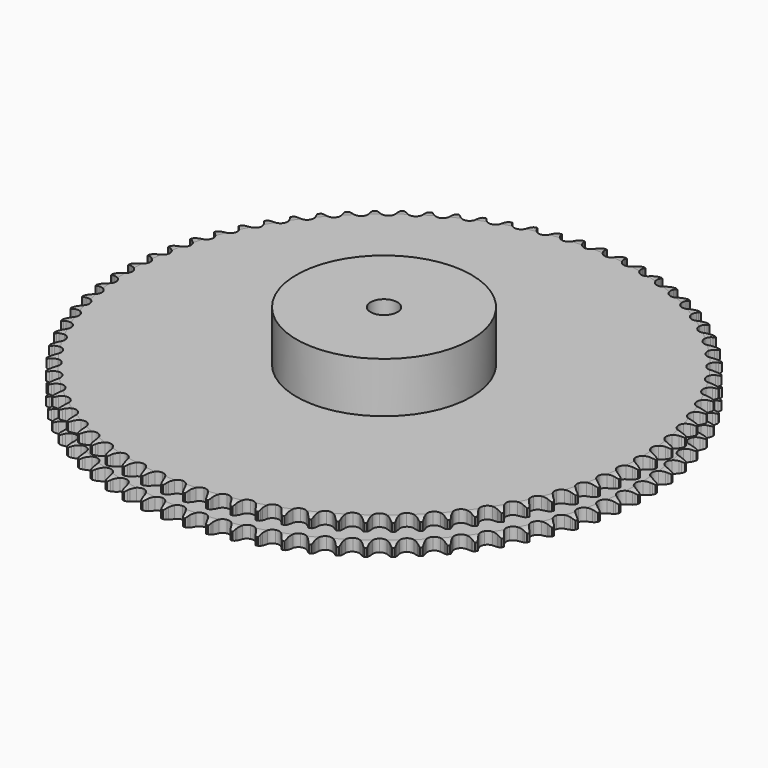
from build123d import *

# Parameters (mm, degrees)
PAD_DEPTH         = 25.5
SKETCH001_R       = 65
PAD001_DEPTH      = 63
SKETCH002_R       = 10
POCKET_DEPTH      = 0.001
POCKET_DEPTH_BACK = 63.001


with BuildPart() as part:
    # Sprocket → Pad (new body)
    with BuildSketch(Plane.XY):
        with BuildLine():
            ThreePointArc((-8.145223, 196.933331), (-7.167321, 195.590684), (-6.48185, 194.077698))
            Line((-6.48185, 194.077698), (-5.990542, 192.611571))
            ThreePointArc((-5.990542, 192.611571), (-5.215144, 190.77076), (-4.172259, 189.067171))
            ThreePointArc((-4.172259, 189.067171), (-2.343516, 187.496541), (0, 186.931635))
            ThreePointArc((0, 186.931635), (2.343516, 187.496541), (4.172259, 189.067171))
            ThreePointArc((4.172259, 189.067171), (5.215144, 190.77076), (5.990542, 192.611571))
            Line((5.990542, 192.611571), (6.48185, 194.077698))
            ThreePointArc((6.48185, 194.077698), (7.167321, 195.590684), (8.145223, 196.933331))
            ThreePointArc((8.145223, 196.933331), (9.00891, 195.514515), (9.567098, 193.950092))
            Line((9.567098, 193.950092), (9.935656, 192.4484))
            ThreePointArc((9.935656, 192.4484), (10.556393, 190.549845), (11.455034, 188.765954))
            ThreePointArc((11.455034, 188.765954), (13.14783, 187.049671), (15.436692, 186.293169))
            ThreePointArc((15.436692, 186.293169), (17.818853, 186.662619), (19.771052, 188.076869))
            Line((19.771052, 188.076869), (21.875819, 191.45901))
            ThreePointArc((21.875819, 191.45901), (22.160464, 192.178185), (22.486521, 192.879558))
            ThreePointArc((22.486521, 192.879558), (23.294592, 194.33077), (24.380028, 195.588077))
            ThreePointArc((24.380028, 195.588077), (25.1236, 194.102784), (25.550693, 192.497609))
            Line((25.550693, 192.497609), (25.793984, 190.970611))
            ThreePointArc((25.793984, 190.970611), (26.255819, 189.02728), (27.004078, 187.175273))
            ThreePointArc((27.004078, 187.175273), (28.549363, 185.325062), (30.767936, 184.382131))
            ThreePointArc((30.767936, 184.382131), (33.17247, 184.553602), (35.234789, 185.80181))
            Line((35.234789, 185.80181), (37.611661, 188.998589))
            ThreePointArc((37.611661, 188.998589), (37.954723, 189.691803), (38.337585, 190.363854))
            ThreePointArc((38.337585, 190.363854), (39.262736, 191.743379), (40.448294, 192.906758))
            ThreePointArc((40.448294, 192.906758), (41.066671, 191.365134), (41.359751, 189.730173))
            Line((41.359751, 189.730173), (41.476112, 188.188299))
            ThreePointArc((41.476112, 188.188299), (41.775891, 186.213468), (42.368657, 184.305995))
            ThreePointArc((42.368657, 184.305995), (43.755875, 182.334495), (45.889003, 181.211577))
            ThreePointArc((45.889003, 181.211577), (48.299484, 181.183897), (50.457836, 182.257537))
            Line((50.457836, 182.257537), (53.090578, 185.247117))
            ThreePointArc((53.090578, 185.247117), (53.489713, 185.909633), (53.926766, 186.547772))
            ThreePointArc((53.926766, 186.547772), (54.962677, 187.846187), (56.240256, 188.90769))
            ThreePointArc((56.240256, 188.90769), (56.729215, 187.320266), (56.88628, 185.666687))
            Line((56.88628, 185.666687), (56.874917, 184.12047))
            ThreePointArc((56.874917, 184.12047), (57.010591, 182.127629), (57.443815, 180.177721))
            ThreePointArc((57.443815, 180.177721), (58.66349, 178.098399), (60.696603, 176.803163))
            ThreePointArc((60.696603, 176.803163), (63.096565, 176.576522), (65.336205, 177.46826))
            Line((65.336205, 177.46826), (68.206832, 180.230219))
            ThreePointArc((68.206832, 180.230219), (68.659315, 180.857512), (69.147571, 181.45738))
            ThreePointArc((69.147571, 181.45738), (70.287167, 182.665816), (71.64804, 183.618191))
            ThreePointArc((71.64804, 183.618191), (72.004241, 181.995811), (72.024218, 180.334909))
            Line((72.024218, 180.334909), (71.885208, 178.794912))
            ThreePointArc((71.885208, 178.794912), (71.855852, 176.797673), (72.126574, 174.81865))
            ThreePointArc((72.126574, 174.81865), (73.170373, 172.64571), (75.089582, 171.187005))
            ThreePointArc((75.089582, 171.187005), (77.462632, 170.762951), (79.768262, 171.466695))
            Line((79.768262, 171.466695), (82.857165, 173.982166))
            ThreePointArc((82.857165, 173.982166), (83.359903, 174.56995), (83.896029, 175.12745))
            ThreePointArc((83.896029, 175.12745), (85.131524, 176.237651), (86.566396, 177.074393))
            ThreePointArc((86.566396, 177.074393), (86.787405, 175.42814), (86.670158, 173.771261))
            Line((86.670158, 173.771261), (86.404451, 172.248003))
            ThreePointArc((86.404451, 172.248003), (86.210264, 170.260011), (86.316635, 168.265391))
            ThreePointArc((86.316635, 168.265391), (87.177429, 166.013676), (88.969624, 164.401466))
            ThreePointArc((88.969624, 164.401466), (91.29955, 163.782896), (93.65542, 164.293839))
            Line((93.65542, 164.293839), (96.941499, 166.545638))
            ThreePointArc((96.941499, 166.545638), (97.491059, 167.089899), (98.071392, 167.601222))
            ThreePointArc((98.071392, 167.601222), (99.394347, 168.605604), (100.893415, 169.320998))
            ThreePointArc((100.893415, 169.320998), (100.977723, 167.662117), (100.724052, 166.020579))
            Line((100.724052, 166.020579), (100.333463, 164.524466))
            ThreePointArc((100.333463, 164.524466), (99.975772, 162.559299), (99.917065, 160.562708))
            ThreePointArc((99.917065, 160.562708), (100.588975, 158.2476), (102.241913, 156.492898))
            ThreePointArc((102.241913, 156.492898), (104.5128, 155.684037), (106.902817, 155.998688))
            Line((106.902817, 155.998688), (110.363625, 157.971435))
            ThreePointArc((110.363625, 157.971435), (110.956252, 158.468455), (111.576827, 158.930107))
            ThreePointArc((111.576827, 158.930107), (112.978205, 159.821811), (114.53123, 160.410969))
            ThreePointArc((114.53123, 160.410969), (114.478261, 158.750791), (114.089899, 157.135809))
            Line((114.089899, 157.135809), (113.577096, 155.67706))
            ThreePointArc((113.577096, 155.67706), (113.058345, 153.748143), (112.834961, 151.763219))
            ThreePointArc((112.834961, 151.763219), (113.313395, 149.400533), (114.815787, 147.515326))
            ThreePointArc((114.815787, 147.515326), (117.012122, 146.521698), (119.419959, 146.637909))
            Line((119.419959, 146.637909), (123.031855, 148.318126))
            ThreePointArc((123.031855, 148.318126), (123.663502, 148.76451), (124.32008, 149.173339))
            ThreePointArc((124.32008, 149.173339), (125.790308, 149.946272), (127.386681, 150.40517))
            ThreePointArc((127.386681, 150.40517), (127.196796, 148.755037), (126.676396, 147.177641))
            Line((126.676396, 147.177641), (126.044882, 145.766222))
            ThreePointArc((126.044882, 145.766222), (125.368614, 143.886731), (124.98208, 141.927033))
            ThreePointArc((124.98208, 141.927033), (125.263771, 139.532908), (126.605351, 137.530073))
            ThreePointArc((126.605351, 137.530073), (128.712132, 136.358468), (131.121342, 136.275444))
            Line((131.121342, 136.275444), (134.859652, 137.651654))
            ThreePointArc((134.859652, 137.651654), (135.526004, 138.044353), (136.214101, 138.397566))
            ThreePointArc((136.214101, 138.397566), (137.743135, 139.046448), (139.371951, 139.371951))
            ThreePointArc((139.371951, 139.371951), (139.046448, 137.743135), (138.397566, 136.214101))
            Line((138.397566, 136.214101), (137.651654, 134.859652))
            ThreePointArc((137.651654, 134.859652), (136.822489, 133.042427), (136.275444, 131.121342))
            ThreePointArc((136.275444, 131.121342), (136.358468, 128.712132), (137.530073, 126.605351))
            ThreePointArc((137.530073, 126.605351), (139.532908, 125.263771), (141.927033, 124.98208))
            Line((141.927033, 124.98208), (145.766222, 126.044882))
            ThreePointArc((145.766222, 126.044882), (146.462726, 126.381212), (147.177641, 126.676396))
            ThreePointArc((147.177641, 126.676396), (148.755037, 127.196796), (150.40517, 127.386681))
            ThreePointArc((150.40517, 127.386681), (149.946272, 125.790308), (149.173339, 124.32008))
            Line((149.173339, 124.32008), (148.318126, 123.031855))
            ThreePointArc((148.318126, 123.031855), (147.341727, 121.289308), (146.637909, 119.419959))
            ThreePointArc((146.637909, 119.419959), (146.521698, 117.012122), (147.515326, 114.815787))
            ThreePointArc((147.515326, 114.815787), (149.400533, 113.313395), (151.763219, 112.834961))
            Line((151.763219, 112.834961), (155.67706, 113.577096))
            ThreePointArc((155.67706, 113.577096), (156.39896, 113.85476), (157.135809, 114.089899))
            ThreePointArc((157.135809, 114.089899), (158.750791, 114.478261), (160.410969, 114.53123))
            ThreePointArc((160.410969, 114.53123), (159.821811, 112.978205), (158.930107, 111.576827))
            Line((158.930107, 111.576827), (157.971435, 110.363625))
            ThreePointArc((157.971435, 110.363625), (156.854472, 108.70766), (155.998688, 106.902817))
            ThreePointArc((155.998688, 106.902817), (155.684037, 104.5128), (156.492898, 102.241913))
            ThreePointArc((156.492898, 102.241913), (158.2476, 100.588975), (160.562708, 99.917065))
            Line((160.562708, 99.917065), (164.524466, 100.333463))
            ThreePointArc((164.524466, 100.333463), (165.266829, 100.550565), (166.020579, 100.724052))
            ThreePointArc((166.020579, 100.724052), (167.662117, 100.977723), (169.320998, 100.893415))
            ThreePointArc((169.320998, 100.893415), (168.605604, 99.394347), (167.601222, 98.071392))
            Line((167.601222, 98.071392), (166.545638, 96.941499))
            ThreePointArc((166.545638, 96.941499), (165.295742, 95.383428), (164.293839, 93.65542))
            ThreePointArc((164.293839, 93.65542), (163.782896, 91.29955), (164.401466, 88.969624))
            ThreePointArc((164.401466, 88.969624), (166.013676, 87.177429), (168.265391, 86.316635))
            Line((168.265391, 86.316635), (172.248003, 86.404451))
            ThreePointArc((172.248003, 86.404451), (173.005759, 86.559507), (173.771261, 86.670158))
            ThreePointArc((173.771261, 86.670158), (175.42814, 86.787405), (177.074393, 86.566396))
            ThreePointArc((177.074393, 86.566396), (176.237651, 85.131524), (175.12745, 83.896029))
            Line((175.12745, 83.896029), (173.982166, 82.857165))
            ThreePointArc((173.982166, 82.857165), (172.607874, 81.407632), (171.466695, 79.768262))
            ThreePointArc((171.466695, 79.768262), (170.762951, 77.462632), (171.187005, 75.089582))
            ThreePointArc((171.187005, 75.089582), (172.64571, 73.170373), (174.81865, 72.126574))
            Line((174.81865, 72.126574), (178.794912, 71.885208))
            ThreePointArc((178.794912, 71.885208), (179.562884, 71.97716), (180.334909, 72.024218))
            ThreePointArc((180.334909, 72.024218), (181.995811, 72.004241), (183.618191, 71.64804))
            ThreePointArc((183.618191, 71.64804), (182.665816, 70.287167), (181.45738, 69.147571))
            Line((181.45738, 69.147571), (180.230219, 68.206832))
            ThreePointArc((180.230219, 68.206832), (178.74092, 66.875738), (177.46826, 65.336205))
            ThreePointArc((177.46826, 65.336205), (176.576522, 63.096565), (176.803163, 60.696603))
            ThreePointArc((176.803163, 60.696603), (178.098399, 58.66349), (180.177721, 57.443815))
            Line((180.177721, 57.443815), (184.12047, 56.874917))
            ThreePointArc((184.12047, 56.874917), (184.893413, 56.903136), (185.666687, 56.88628))
            ThreePointArc((185.666687, 56.88628), (187.320266, 56.729215), (188.90769, 56.240256))
            ThreePointArc((188.90769, 56.240256), (187.846187, 54.962677), (186.547772, 53.926766))
            Line((186.547772, 53.926766), (185.247117, 53.090578))
            ThreePointArc((185.247117, 53.090578), (183.652984, 51.887015), (182.257537, 50.457836))
            ThreePointArc((182.257537, 50.457836), (181.183897, 48.299484), (181.211577, 45.889003))
            ThreePointArc((181.211577, 45.889003), (182.334495, 43.755875), (184.305995, 42.368657))
            Line((184.305995, 42.368657), (188.188299, 41.476112))
            ThreePointArc((188.188299, 41.476112), (188.960932, 41.440406), (189.730173, 41.359751))
            ThreePointArc((189.730173, 41.359751), (191.365134, 41.066671), (192.906758, 40.448294))
            ThreePointArc((192.906758, 40.448294), (191.743379, 39.262736), (190.363854, 38.337585))
            Line((190.363854, 38.337585), (188.998589, 37.611661))
            ThreePointArc((188.998589, 37.611661), (187.310511, 36.543852), (185.80181, 35.234789))
            ThreePointArc((185.80181, 35.234789), (184.553602, 33.17247), (184.382131, 30.767936))
            ThreePointArc((184.382131, 30.767936), (185.325062, 28.549363), (187.175273, 27.004078))
            Line((187.175273, 27.004078), (190.970611, 25.793984))
            ThreePointArc((190.970611, 25.793984), (191.737656, 25.694596), (192.497609, 25.550693))
            ThreePointArc((192.497609, 25.550693), (194.102784, 25.1236), (195.588077, 24.380028))
            ThreePointArc((195.588077, 24.380028), (194.33077, 23.294592), (192.879558, 22.486521))
            Line((192.879558, 22.486521), (191.45901, 21.875819))
            ThreePointArc((191.45901, 21.875819), (189.688518, 20.951056), (188.076869, 19.771052))
            ThreePointArc((188.076869, 19.771052), (186.662619, 17.818853), (186.293169, 15.436692))
            ThreePointArc((186.293169, 15.436692), (187.049671, 13.14783), (188.765954, 11.455034))
            Line((188.765954, 11.455034), (192.4484, 9.935656))
            ThreePointArc((192.4484, 9.935656), (193.204618, 9.773266), (193.950092, 9.567098))
            ThreePointArc((193.950092, 9.567098), (195.514515, 9.00891), (196.933331, 8.145223))
            ThreePointArc((196.933331, 8.145223), (195.590684, 7.167321), (194.077698, 6.48185))
            Line((194.077698, 6.48185), (192.611571, 5.990542))
            ThreePointArc((192.611571, 5.990542), (190.77076, 5.215144), (189.067171, 4.172259))
            ThreePointArc((189.067171, 4.172259), (187.496541, 2.343516), (186.931635, 0))
            ThreePointArc((186.931635, 0), (187.496541, -2.343516), (189.067171, -4.172259))
            Line((189.067171, -4.172259), (192.611571, -5.990542))
            ThreePointArc((192.611571, -5.990542), (193.351796, -6.214826), (194.077698, -6.48185))
            ThreePointArc((194.077698, -6.48185), (195.590684, -7.167321), (196.933331, -8.145223))
            ThreePointArc((196.933331, -8.145223), (195.514515, -9.00891), (193.950092, -9.567098))
            Line((193.950092, -9.567098), (192.4484, -9.935656))
            ThreePointArc((192.4484, -9.935656), (190.549845, -10.556393), (188.765954, -11.455034))
            ThreePointArc((188.765954, -11.455034), (187.049671, -13.14783), (186.293169, -15.436692))
            ThreePointArc((186.293169, -15.436692), (186.662619, -17.818853), (188.076869, -19.771052))
            Line((188.076869, -19.771052), (191.45901, -21.875819))
            ThreePointArc((191.45901, -21.875819), (192.178185, -22.160464), (192.879558, -22.486521))
            ThreePointArc((192.879558, -22.486521), (194.33077, -23.294592), (195.588077, -24.380028))
            ThreePointArc((195.588077, -24.380028), (194.102784, -25.1236), (192.497609, -25.550693))
            Line((192.497609, -25.550693), (190.970611, -25.793984))
            ThreePointArc((190.970611, -25.793984), (189.02728, -26.255819), (187.175273, -27.004078))
            ThreePointArc((187.175273, -27.004078), (185.325062, -28.549363), (184.382131, -30.767936))
            ThreePointArc((184.382131, -30.767936), (184.553602, -33.17247), (185.80181, -35.234789))
            Line((185.80181, -35.234789), (188.998589, -37.611661))
            ThreePointArc((188.998589, -37.611661), (189.691803, -37.954723), (190.363854, -38.337585))
            ThreePointArc((190.363854, -38.337585), (191.743379, -39.262736), (192.906758, -40.448294))
            ThreePointArc((192.906758, -40.448294), (191.365134, -41.066671), (189.730173, -41.359751))
            Line((189.730173, -41.359751), (188.188299, -41.476112))
            ThreePointArc((188.188299, -41.476112), (186.213468, -41.775891), (184.305995, -42.368657))
            ThreePointArc((184.305995, -42.368657), (182.334495, -43.755875), (181.211577, -45.889003))
            ThreePointArc((181.211577, -45.889003), (181.183897, -48.299484), (182.257537, -50.457836))
            Line((182.257537, -50.457836), (185.247117, -53.090578))
            ThreePointArc((185.247117, -53.090578), (185.909633, -53.489713), (186.547772, -53.926766))
            ThreePointArc((186.547772, -53.926766), (187.846187, -54.962677), (188.90769, -56.240256))
            ThreePointArc((188.90769, -56.240256), (187.320266, -56.729215), (185.666687, -56.88628))
            Line((185.666687, -56.88628), (184.12047, -56.874917))
            ThreePointArc((184.12047, -56.874917), (182.127629, -57.010591), (180.177721, -57.443815))
            ThreePointArc((180.177721, -57.443815), (178.098399, -58.66349), (176.803163, -60.696603))
            ThreePointArc((176.803163, -60.696603), (176.576522, -63.096565), (177.46826, -65.336205))
            Line((177.46826, -65.336205), (180.230219, -68.206832))
            ThreePointArc((180.230219, -68.206832), (180.857512, -68.659315), (181.45738, -69.147571))
            ThreePointArc((181.45738, -69.147571), (182.665816, -70.287167), (183.618191, -71.64804))
            ThreePointArc((183.618191, -71.64804), (181.995811, -72.004241), (180.334909, -72.024218))
            Line((180.334909, -72.024218), (178.794912, -71.885208))
            ThreePointArc((178.794912, -71.885208), (176.797673, -71.855852), (174.81865, -72.126574))
            ThreePointArc((174.81865, -72.126574), (172.64571, -73.170373), (171.187005, -75.089582))
            ThreePointArc((171.187005, -75.089582), (170.762951, -77.462632), (171.466695, -79.768262))
            Line((171.466695, -79.768262), (173.982166, -82.857165))
            ThreePointArc((173.982166, -82.857165), (174.56995, -83.359903), (175.12745, -83.896029))
            ThreePointArc((175.12745, -83.896029), (176.237651, -85.131524), (177.074393, -86.566396))
            ThreePointArc((177.074393, -86.566396), (175.42814, -86.787405), (173.771261, -86.670158))
            Line((173.771261, -86.670158), (172.248003, -86.404451))
            ThreePointArc((172.248003, -86.404451), (170.260011, -86.210264), (168.265391, -86.316635))
            ThreePointArc((168.265391, -86.316635), (166.013676, -87.177429), (164.401466, -88.969624))
            ThreePointArc((164.401466, -88.969624), (163.782896, -91.29955), (164.293839, -93.65542))
            Line((164.293839, -93.65542), (166.545638, -96.941499))
            ThreePointArc((166.545638, -96.941499), (167.089899, -97.491059), (167.601222, -98.071392))
            ThreePointArc((167.601222, -98.071392), (168.605604, -99.394347), (169.320998, -100.893415))
            ThreePointArc((169.320998, -100.893415), (167.662117, -100.977723), (166.020579, -100.724052))
            Line((166.020579, -100.724052), (164.524466, -100.333463))
            ThreePointArc((164.524466, -100.333463), (162.559299, -99.975772), (160.562708, -99.917065))
            ThreePointArc((160.562708, -99.917065), (158.2476, -100.588975), (156.492898, -102.241913))
            ThreePointArc((156.492898, -102.241913), (155.684037, -104.5128), (155.998688, -106.902817))
            Line((155.998688, -106.902817), (157.971435, -110.363625))
            ThreePointArc((157.971435, -110.363625), (158.468455, -110.956252), (158.930107, -111.576827))
            ThreePointArc((158.930107, -111.576827), (159.821811, -112.978205), (160.410969, -114.53123))
            ThreePointArc((160.410969, -114.53123), (158.750791, -114.478261), (157.135809, -114.089899))
            Line((157.135809, -114.089899), (155.67706, -113.577096))
            ThreePointArc((155.67706, -113.577096), (153.748143, -113.058345), (151.763219, -112.834961))
            ThreePointArc((151.763219, -112.834961), (149.400533, -113.313395), (147.515326, -114.815787))
            ThreePointArc((147.515326, -114.815787), (146.521698, -117.012122), (146.637909, -119.419959))
            Line((146.637909, -119.419959), (148.318126, -123.031855))
            ThreePointArc((148.318126, -123.031855), (148.76451, -123.663502), (149.173339, -124.32008))
            ThreePointArc((149.173339, -124.32008), (149.946272, -125.790308), (150.40517, -127.386681))
            ThreePointArc((150.40517, -127.386681), (148.755037, -127.196796), (147.177641, -126.676396))
            Line((147.177641, -126.676396), (145.766222, -126.044882))
            ThreePointArc((145.766222, -126.044882), (143.886731, -125.368614), (141.927033, -124.98208))
            ThreePointArc((141.927033, -124.98208), (139.532908, -125.263771), (137.530073, -126.605351))
            ThreePointArc((137.530073, -126.605351), (136.358468, -128.712132), (136.275444, -131.121342))
            Line((136.275444, -131.121342), (137.651654, -134.859652))
            ThreePointArc((137.651654, -134.859652), (138.044353, -135.526004), (138.397566, -136.214101))
            ThreePointArc((138.397566, -136.214101), (139.046448, -137.743135), (139.371951, -139.371951))
            ThreePointArc((139.371951, -139.371951), (137.743135, -139.046448), (136.214101, -138.397566))
            Line((136.214101, -138.397566), (134.859652, -137.651654))
            ThreePointArc((134.859652, -137.651654), (133.042427, -136.822489), (131.121342, -136.275444))
            ThreePointArc((131.121342, -136.275444), (128.712132, -136.358468), (126.605351, -137.530073))
            ThreePointArc((126.605351, -137.530073), (125.263771, -139.532908), (124.98208, -141.927033))
            Line((124.98208, -141.927033), (126.044882, -145.766222))
            ThreePointArc((126.044882, -145.766222), (126.381212, -146.462726), (126.676396, -147.177641))
            ThreePointArc((126.676396, -147.177641), (127.196796, -148.755037), (127.386681, -150.40517))
            ThreePointArc((127.386681, -150.40517), (125.790308, -149.946272), (124.32008, -149.173339))
            Line((124.32008, -149.173339), (123.031855, -148.318126))
            ThreePointArc((123.031855, -148.318126), (121.289308, -147.341727), (119.419959, -146.637909))
            ThreePointArc((119.419959, -146.637909), (117.012122, -146.521698), (114.815787, -147.515326))
            ThreePointArc((114.815787, -147.515326), (113.313395, -149.400533), (112.834961, -151.763219))
            Line((112.834961, -151.763219), (113.577096, -155.67706))
            ThreePointArc((113.577096, -155.67706), (113.85476, -156.39896), (114.089899, -157.135809))
            ThreePointArc((114.089899, -157.135809), (114.478261, -158.750791), (114.53123, -160.410969))
            ThreePointArc((114.53123, -160.410969), (112.978205, -159.821811), (111.576827, -158.930107))
            Line((111.576827, -158.930107), (110.363625, -157.971435))
            ThreePointArc((110.363625, -157.971435), (108.70766, -156.854472), (106.902817, -155.998688))
            ThreePointArc((106.902817, -155.998688), (104.5128, -155.684037), (102.241913, -156.492898))
            ThreePointArc((102.241913, -156.492898), (100.588975, -158.2476), (99.917065, -160.562708))
            Line((99.917065, -160.562708), (100.333463, -164.524466))
            ThreePointArc((100.333463, -164.524466), (100.550565, -165.266829), (100.724052, -166.020579))
            ThreePointArc((100.724052, -166.020579), (100.977723, -167.662117), (100.893415, -169.320998))
            ThreePointArc((100.893415, -169.320998), (99.394347, -168.605604), (98.071392, -167.601222))
            Line((98.071392, -167.601222), (96.941499, -166.545638))
            ThreePointArc((96.941499, -166.545638), (95.383428, -165.295742), (93.65542, -164.293839))
            ThreePointArc((93.65542, -164.293839), (91.29955, -163.782896), (88.969624, -164.401466))
            ThreePointArc((88.969624, -164.401466), (87.177429, -166.013676), (86.316635, -168.265391))
            Line((86.316635, -168.265391), (86.404451, -172.248003))
            ThreePointArc((86.404451, -172.248003), (86.559507, -173.005759), (86.670158, -173.771261))
            ThreePointArc((86.670158, -173.771261), (86.787405, -175.42814), (86.566396, -177.074393))
            ThreePointArc((86.566396, -177.074393), (85.131524, -176.237651), (83.896029, -175.12745))
            Line((83.896029, -175.12745), (82.857165, -173.982166))
            ThreePointArc((82.857165, -173.982166), (81.407632, -172.607874), (79.768262, -171.466695))
            ThreePointArc((79.768262, -171.466695), (77.462632, -170.762951), (75.089582, -171.187005))
            ThreePointArc((75.089582, -171.187005), (73.170373, -172.64571), (72.126574, -174.81865))
            Line((72.126574, -174.81865), (71.885208, -178.794912))
            ThreePointArc((71.885208, -178.794912), (71.97716, -179.562884), (72.024218, -180.334909))
            ThreePointArc((72.024218, -180.334909), (72.004241, -181.995811), (71.64804, -183.618191))
            ThreePointArc((71.64804, -183.618191), (70.287167, -182.665816), (69.147571, -181.45738))
            Line((69.147571, -181.45738), (68.206832, -180.230219))
            ThreePointArc((68.206832, -180.230219), (66.875738, -178.74092), (65.336205, -177.46826))
            ThreePointArc((65.336205, -177.46826), (63.096565, -176.576522), (60.696603, -176.803163))
            ThreePointArc((60.696603, -176.803163), (58.66349, -178.098399), (57.443815, -180.177721))
            Line((57.443815, -180.177721), (56.874917, -184.12047))
            ThreePointArc((56.874917, -184.12047), (56.903136, -184.893413), (56.88628, -185.666687))
            ThreePointArc((56.88628, -185.666687), (56.729215, -187.320266), (56.240256, -188.90769))
            ThreePointArc((56.240256, -188.90769), (54.962677, -187.846187), (53.926766, -186.547772))
            Line((53.926766, -186.547772), (53.090578, -185.247117))
            ThreePointArc((53.090578, -185.247117), (51.887015, -183.652984), (50.457836, -182.257537))
            ThreePointArc((50.457836, -182.257537), (48.299484, -181.183897), (45.889003, -181.211577))
            ThreePointArc((45.889003, -181.211577), (43.755875, -182.334495), (42.368657, -184.305995))
            Line((42.368657, -184.305995), (41.476112, -188.188299))
            ThreePointArc((41.476112, -188.188299), (41.440406, -188.960932), (41.359751, -189.730173))
            ThreePointArc((41.359751, -189.730173), (41.066671, -191.365134), (40.448294, -192.906758))
            ThreePointArc((40.448294, -192.906758), (39.262736, -191.743379), (38.337585, -190.363854))
            Line((38.337585, -190.363854), (37.611661, -188.998589))
            ThreePointArc((37.611661, -188.998589), (36.543852, -187.310511), (35.234789, -185.80181))
            ThreePointArc((35.234789, -185.80181), (33.17247, -184.553602), (30.767936, -184.382131))
            ThreePointArc((30.767936, -184.382131), (28.549363, -185.325062), (27.004078, -187.175273))
            Line((27.004078, -187.175273), (25.793984, -190.970611))
            ThreePointArc((25.793984, -190.970611), (25.694596, -191.737656), (25.550693, -192.497609))
            ThreePointArc((25.550693, -192.497609), (25.1236, -194.102784), (24.380028, -195.588077))
            ThreePointArc((24.380028, -195.588077), (23.294592, -194.33077), (22.486521, -192.879558))
            Line((22.486521, -192.879558), (21.875819, -191.45901))
            ThreePointArc((21.875819, -191.45901), (20.951056, -189.688518), (19.771052, -188.076869))
            ThreePointArc((19.771052, -188.076869), (17.818853, -186.662619), (15.436692, -186.293169))
            ThreePointArc((15.436692, -186.293169), (13.14783, -187.049671), (11.455034, -188.765954))
            Line((11.455034, -188.765954), (9.935656, -192.4484))
            ThreePointArc((9.935656, -192.4484), (9.773266, -193.204618), (9.567098, -193.950092))
            ThreePointArc((9.567098, -193.950092), (9.00891, -195.514515), (8.145223, -196.933331))
            ThreePointArc((8.145223, -196.933331), (7.167321, -195.590684), (6.48185, -194.077698))
            Line((6.48185, -194.077698), (5.990542, -192.611571))
            ThreePointArc((5.990542, -192.611571), (5.215144, -190.77076), (4.172259, -189.067171))
            ThreePointArc((4.172259, -189.067171), (2.343516, -187.496541), (0, -186.931635))
            ThreePointArc((0, -186.931635), (-2.343516, -187.496541), (-4.172259, -189.067171))
            Line((-4.172259, -189.067171), (-5.990542, -192.611571))
            ThreePointArc((-5.990542, -192.611571), (-6.214826, -193.351796), (-6.48185, -194.077698))
            ThreePointArc((-6.48185, -194.077698), (-7.167321, -195.590684), (-8.145223, -196.933331))
            ThreePointArc((-8.145223, -196.933331), (-9.00891, -195.514515), (-9.567098, -193.950092))
            Line((-9.567098, -193.950092), (-9.935656, -192.4484))
            ThreePointArc((-9.935656, -192.4484), (-10.556393, -190.549845), (-11.455034, -188.765954))
            ThreePointArc((-11.455034, -188.765954), (-13.14783, -187.049671), (-15.436692, -186.293169))
            ThreePointArc((-15.436692, -186.293169), (-17.818853, -186.662619), (-19.771052, -188.076869))
            Line((-19.771052, -188.076869), (-21.875819, -191.45901))
            ThreePointArc((-21.875819, -191.45901), (-22.160464, -192.178185), (-22.486521, -192.879558))
            ThreePointArc((-22.486521, -192.879558), (-23.294592, -194.33077), (-24.380028, -195.588077))
            ThreePointArc((-24.380028, -195.588077), (-25.1236, -194.102784), (-25.550693, -192.497609))
            Line((-25.550693, -192.497609), (-25.793984, -190.970611))
            ThreePointArc((-25.793984, -190.970611), (-26.255819, -189.02728), (-27.004078, -187.175273))
            ThreePointArc((-27.004078, -187.175273), (-28.549363, -185.325062), (-30.767936, -184.382131))
            ThreePointArc((-30.767936, -184.382131), (-33.17247, -184.553602), (-35.234789, -185.80181))
            Line((-35.234789, -185.80181), (-37.611661, -188.998589))
            ThreePointArc((-37.611661, -188.998589), (-37.954723, -189.691803), (-38.337585, -190.363854))
            ThreePointArc((-38.337585, -190.363854), (-39.262736, -191.743379), (-40.448294, -192.906758))
            ThreePointArc((-40.448294, -192.906758), (-41.066671, -191.365134), (-41.359751, -189.730173))
            Line((-41.359751, -189.730173), (-41.476112, -188.188299))
            ThreePointArc((-41.476112, -188.188299), (-41.775891, -186.213468), (-42.368657, -184.305995))
            ThreePointArc((-42.368657, -184.305995), (-43.755875, -182.334495), (-45.889003, -181.211577))
            ThreePointArc((-45.889003, -181.211577), (-48.299484, -181.183897), (-50.457836, -182.257537))
            Line((-50.457836, -182.257537), (-53.090578, -185.247117))
            ThreePointArc((-53.090578, -185.247117), (-53.489713, -185.909633), (-53.926766, -186.547772))
            ThreePointArc((-53.926766, -186.547772), (-54.962677, -187.846187), (-56.240256, -188.90769))
            ThreePointArc((-56.240256, -188.90769), (-56.729215, -187.320266), (-56.88628, -185.666687))
            Line((-56.88628, -185.666687), (-56.874917, -184.12047))
            ThreePointArc((-56.874917, -184.12047), (-57.010591, -182.127629), (-57.443815, -180.177721))
            ThreePointArc((-57.443815, -180.177721), (-58.66349, -178.098399), (-60.696603, -176.803163))
            ThreePointArc((-60.696603, -176.803163), (-63.096565, -176.576522), (-65.336205, -177.46826))
            Line((-65.336205, -177.46826), (-68.206832, -180.230219))
            ThreePointArc((-68.206832, -180.230219), (-68.659315, -180.857512), (-69.147571, -181.45738))
            ThreePointArc((-69.147571, -181.45738), (-70.287167, -182.665816), (-71.64804, -183.618191))
            ThreePointArc((-71.64804, -183.618191), (-72.004241, -181.995811), (-72.024218, -180.334909))
            Line((-72.024218, -180.334909), (-71.885208, -178.794912))
            ThreePointArc((-71.885208, -178.794912), (-71.855852, -176.797673), (-72.126574, -174.81865))
            ThreePointArc((-72.126574, -174.81865), (-73.170373, -172.64571), (-75.089582, -171.187005))
            ThreePointArc((-75.089582, -171.187005), (-77.462632, -170.762951), (-79.768262, -171.466695))
            Line((-79.768262, -171.466695), (-82.857165, -173.982166))
            ThreePointArc((-82.857165, -173.982166), (-83.359903, -174.56995), (-83.896029, -175.12745))
            ThreePointArc((-83.896029, -175.12745), (-85.131524, -176.237651), (-86.566396, -177.074393))
            ThreePointArc((-86.566396, -177.074393), (-86.787405, -175.42814), (-86.670158, -173.771261))
            Line((-86.670158, -173.771261), (-86.404451, -172.248003))
            ThreePointArc((-86.404451, -172.248003), (-86.210264, -170.260011), (-86.316635, -168.265391))
            ThreePointArc((-86.316635, -168.265391), (-87.177429, -166.013676), (-88.969624, -164.401466))
            ThreePointArc((-88.969624, -164.401466), (-91.29955, -163.782896), (-93.65542, -164.293839))
            Line((-93.65542, -164.293839), (-96.941499, -166.545638))
            ThreePointArc((-96.941499, -166.545638), (-97.491059, -167.089899), (-98.071392, -167.601222))
            ThreePointArc((-98.071392, -167.601222), (-99.394347, -168.605604), (-100.893415, -169.320998))
            ThreePointArc((-100.893415, -169.320998), (-100.977723, -167.662117), (-100.724052, -166.020579))
            Line((-100.724052, -166.020579), (-100.333463, -164.524466))
            ThreePointArc((-100.333463, -164.524466), (-99.975772, -162.559299), (-99.917065, -160.562708))
            ThreePointArc((-99.917065, -160.562708), (-100.588975, -158.2476), (-102.241913, -156.492898))
            ThreePointArc((-102.241913, -156.492898), (-104.5128, -155.684037), (-106.902817, -155.998688))
            Line((-106.902817, -155.998688), (-110.363625, -157.971435))
            ThreePointArc((-110.363625, -157.971435), (-110.956252, -158.468455), (-111.576827, -158.930107))
            ThreePointArc((-111.576827, -158.930107), (-112.978205, -159.821811), (-114.53123, -160.410969))
            ThreePointArc((-114.53123, -160.410969), (-114.478261, -158.750791), (-114.089899, -157.135809))
            Line((-114.089899, -157.135809), (-113.577096, -155.67706))
            ThreePointArc((-113.577096, -155.67706), (-113.058345, -153.748143), (-112.834961, -151.763219))
            ThreePointArc((-112.834961, -151.763219), (-113.313395, -149.400533), (-114.815787, -147.515326))
            ThreePointArc((-114.815787, -147.515326), (-117.012122, -146.521698), (-119.419959, -146.637909))
            Line((-119.419959, -146.637909), (-123.031855, -148.318126))
            ThreePointArc((-123.031855, -148.318126), (-123.663502, -148.76451), (-124.32008, -149.173339))
            ThreePointArc((-124.32008, -149.173339), (-125.790308, -149.946272), (-127.386681, -150.40517))
            ThreePointArc((-127.386681, -150.40517), (-127.196796, -148.755037), (-126.676396, -147.177641))
            Line((-126.676396, -147.177641), (-126.044882, -145.766222))
            ThreePointArc((-126.044882, -145.766222), (-125.368614, -143.886731), (-124.98208, -141.927033))
            ThreePointArc((-124.98208, -141.927033), (-125.263771, -139.532908), (-126.605351, -137.530073))
            ThreePointArc((-126.605351, -137.530073), (-128.712132, -136.358468), (-131.121342, -136.275444))
            Line((-131.121342, -136.275444), (-134.859652, -137.651654))
            ThreePointArc((-134.859652, -137.651654), (-135.526004, -138.044353), (-136.214101, -138.397566))
            ThreePointArc((-136.214101, -138.397566), (-137.743135, -139.046448), (-139.371951, -139.371951))
            ThreePointArc((-139.371951, -139.371951), (-139.046448, -137.743135), (-138.397566, -136.214101))
            Line((-138.397566, -136.214101), (-137.651654, -134.859652))
            ThreePointArc((-137.651654, -134.859652), (-136.822489, -133.042427), (-136.275444, -131.121342))
            ThreePointArc((-136.275444, -131.121342), (-136.358468, -128.712132), (-137.530073, -126.605351))
            ThreePointArc((-137.530073, -126.605351), (-139.532908, -125.263771), (-141.927033, -124.98208))
            Line((-141.927033, -124.98208), (-145.766222, -126.044882))
            ThreePointArc((-145.766222, -126.044882), (-146.462726, -126.381212), (-147.177641, -126.676396))
            ThreePointArc((-147.177641, -126.676396), (-148.755037, -127.196796), (-150.40517, -127.386681))
            ThreePointArc((-150.40517, -127.386681), (-149.946272, -125.790308), (-149.173339, -124.32008))
            Line((-149.173339, -124.32008), (-148.318126, -123.031855))
            ThreePointArc((-148.318126, -123.031855), (-147.341727, -121.289308), (-146.637909, -119.419959))
            ThreePointArc((-146.637909, -119.419959), (-146.521698, -117.012122), (-147.515326, -114.815787))
            ThreePointArc((-147.515326, -114.815787), (-149.400533, -113.313395), (-151.763219, -112.834961))
            Line((-151.763219, -112.834961), (-155.67706, -113.577096))
            ThreePointArc((-155.67706, -113.577096), (-156.39896, -113.85476), (-157.135809, -114.089899))
            ThreePointArc((-157.135809, -114.089899), (-158.750791, -114.478261), (-160.410969, -114.53123))
            ThreePointArc((-160.410969, -114.53123), (-159.821811, -112.978205), (-158.930107, -111.576827))
            Line((-158.930107, -111.576827), (-157.971435, -110.363625))
            ThreePointArc((-157.971435, -110.363625), (-156.854472, -108.70766), (-155.998688, -106.902817))
            ThreePointArc((-155.998688, -106.902817), (-155.684037, -104.5128), (-156.492898, -102.241913))
            ThreePointArc((-156.492898, -102.241913), (-158.2476, -100.588975), (-160.562708, -99.917065))
            Line((-160.562708, -99.917065), (-164.524466, -100.333463))
            ThreePointArc((-164.524466, -100.333463), (-165.266829, -100.550565), (-166.020579, -100.724052))
            ThreePointArc((-166.020579, -100.724052), (-167.662117, -100.977723), (-169.320998, -100.893415))
            ThreePointArc((-169.320998, -100.893415), (-168.605604, -99.394347), (-167.601222, -98.071392))
            Line((-167.601222, -98.071392), (-166.545638, -96.941499))
            ThreePointArc((-166.545638, -96.941499), (-165.295742, -95.383428), (-164.293839, -93.65542))
            ThreePointArc((-164.293839, -93.65542), (-163.782896, -91.29955), (-164.401466, -88.969624))
            ThreePointArc((-164.401466, -88.969624), (-166.013676, -87.177429), (-168.265391, -86.316635))
            Line((-168.265391, -86.316635), (-172.248003, -86.404451))
            ThreePointArc((-172.248003, -86.404451), (-173.005759, -86.559507), (-173.771261, -86.670158))
            ThreePointArc((-173.771261, -86.670158), (-175.42814, -86.787405), (-177.074393, -86.566396))
            ThreePointArc((-177.074393, -86.566396), (-176.237651, -85.131524), (-175.12745, -83.896029))
            Line((-175.12745, -83.896029), (-173.982166, -82.857165))
            ThreePointArc((-173.982166, -82.857165), (-172.607874, -81.407632), (-171.466695, -79.768262))
            ThreePointArc((-171.466695, -79.768262), (-170.762951, -77.462632), (-171.187005, -75.089582))
            ThreePointArc((-171.187005, -75.089582), (-172.64571, -73.170373), (-174.81865, -72.126574))
            Line((-174.81865, -72.126574), (-178.794912, -71.885208))
            ThreePointArc((-178.794912, -71.885208), (-179.562884, -71.97716), (-180.334909, -72.024218))
            ThreePointArc((-180.334909, -72.024218), (-181.995811, -72.004241), (-183.618191, -71.64804))
            ThreePointArc((-183.618191, -71.64804), (-182.665816, -70.287167), (-181.45738, -69.147571))
            Line((-181.45738, -69.147571), (-180.230219, -68.206832))
            ThreePointArc((-180.230219, -68.206832), (-178.74092, -66.875738), (-177.46826, -65.336205))
            ThreePointArc((-177.46826, -65.336205), (-176.576522, -63.096565), (-176.803163, -60.696603))
            ThreePointArc((-176.803163, -60.696603), (-178.098399, -58.66349), (-180.177721, -57.443815))
            Line((-180.177721, -57.443815), (-184.12047, -56.874917))
            ThreePointArc((-184.12047, -56.874917), (-184.893413, -56.903136), (-185.666687, -56.88628))
            ThreePointArc((-185.666687, -56.88628), (-187.320266, -56.729215), (-188.90769, -56.240256))
            ThreePointArc((-188.90769, -56.240256), (-187.846187, -54.962677), (-186.547772, -53.926766))
            Line((-186.547772, -53.926766), (-185.247117, -53.090578))
            ThreePointArc((-185.247117, -53.090578), (-183.652984, -51.887015), (-182.257537, -50.457836))
            ThreePointArc((-182.257537, -50.457836), (-181.183897, -48.299484), (-181.211577, -45.889003))
            ThreePointArc((-181.211577, -45.889003), (-182.334495, -43.755875), (-184.305995, -42.368657))
            Line((-184.305995, -42.368657), (-188.188299, -41.476112))
            ThreePointArc((-188.188299, -41.476112), (-188.960932, -41.440406), (-189.730173, -41.359751))
            ThreePointArc((-189.730173, -41.359751), (-191.365134, -41.066671), (-192.906758, -40.448294))
            ThreePointArc((-192.906758, -40.448294), (-191.743379, -39.262736), (-190.363854, -38.337585))
            Line((-190.363854, -38.337585), (-188.998589, -37.611661))
            ThreePointArc((-188.998589, -37.611661), (-187.310511, -36.543852), (-185.80181, -35.234789))
            ThreePointArc((-185.80181, -35.234789), (-184.553602, -33.17247), (-184.382131, -30.767936))
            ThreePointArc((-184.382131, -30.767936), (-185.325062, -28.549363), (-187.175273, -27.004078))
            Line((-187.175273, -27.004078), (-190.970611, -25.793984))
            ThreePointArc((-190.970611, -25.793984), (-191.737656, -25.694596), (-192.497609, -25.550693))
            ThreePointArc((-192.497609, -25.550693), (-194.102784, -25.1236), (-195.588077, -24.380028))
            ThreePointArc((-195.588077, -24.380028), (-194.33077, -23.294592), (-192.879558, -22.486521))
            Line((-192.879558, -22.486521), (-191.45901, -21.875819))
            ThreePointArc((-191.45901, -21.875819), (-189.688518, -20.951056), (-188.076869, -19.771052))
            ThreePointArc((-188.076869, -19.771052), (-186.662619, -17.818853), (-186.293169, -15.436692))
            ThreePointArc((-186.293169, -15.436692), (-187.049671, -13.14783), (-188.765954, -11.455034))
            Line((-188.765954, -11.455034), (-192.4484, -9.935656))
            ThreePointArc((-192.4484, -9.935656), (-193.204618, -9.773266), (-193.950092, -9.567098))
            ThreePointArc((-193.950092, -9.567098), (-195.514515, -9.00891), (-196.933331, -8.145223))
            ThreePointArc((-196.933331, -8.145223), (-195.590684, -7.167321), (-194.077698, -6.48185))
            Line((-194.077698, -6.48185), (-192.611571, -5.990542))
            ThreePointArc((-192.611571, -5.990542), (-190.77076, -5.215144), (-189.067171, -4.172259))
            ThreePointArc((-189.067171, -4.172259), (-187.496541, -2.343516), (-186.931635, 0))
            ThreePointArc((-186.931635, 0), (-187.496541, 2.343516), (-189.067171, 4.172259))
            Line((-189.067171, 4.172259), (-192.611571, 5.990542))
            ThreePointArc((-192.611571, 5.990542), (-193.351796, 6.214826), (-194.077698, 6.48185))
            ThreePointArc((-194.077698, 6.48185), (-195.590684, 7.167321), (-196.933331, 8.145223))
            ThreePointArc((-196.933331, 8.145223), (-195.514515, 9.00891), (-193.950092, 9.567098))
            Line((-193.950092, 9.567098), (-192.4484, 9.935656))
            ThreePointArc((-192.4484, 9.935656), (-190.549845, 10.556393), (-188.765954, 11.455034))
            ThreePointArc((-188.765954, 11.455034), (-187.049671, 13.14783), (-186.293169, 15.436692))
            ThreePointArc((-186.293169, 15.436692), (-186.662619, 17.818853), (-188.076869, 19.771052))
            Line((-188.076869, 19.771052), (-191.45901, 21.875819))
            ThreePointArc((-191.45901, 21.875819), (-192.178185, 22.160464), (-192.879558, 22.486521))
            ThreePointArc((-192.879558, 22.486521), (-194.33077, 23.294592), (-195.588077, 24.380028))
            ThreePointArc((-195.588077, 24.380028), (-194.102784, 25.1236), (-192.497609, 25.550693))
            Line((-192.497609, 25.550693), (-190.970611, 25.793984))
            ThreePointArc((-190.970611, 25.793984), (-189.02728, 26.255819), (-187.175273, 27.004078))
            ThreePointArc((-187.175273, 27.004078), (-185.325062, 28.549363), (-184.382131, 30.767936))
            ThreePointArc((-184.382131, 30.767936), (-184.553602, 33.17247), (-185.80181, 35.234789))
            Line((-185.80181, 35.234789), (-188.998589, 37.611661))
            ThreePointArc((-188.998589, 37.611661), (-189.691803, 37.954723), (-190.363854, 38.337585))
            ThreePointArc((-190.363854, 38.337585), (-191.743379, 39.262736), (-192.906758, 40.448294))
            ThreePointArc((-192.906758, 40.448294), (-191.365134, 41.066671), (-189.730173, 41.359751))
            Line((-189.730173, 41.359751), (-188.188299, 41.476112))
            ThreePointArc((-188.188299, 41.476112), (-186.213468, 41.775891), (-184.305995, 42.368657))
            ThreePointArc((-184.305995, 42.368657), (-182.334495, 43.755875), (-181.211577, 45.889003))
            ThreePointArc((-181.211577, 45.889003), (-181.183897, 48.299484), (-182.257537, 50.457836))
            Line((-182.257537, 50.457836), (-185.247117, 53.090578))
            ThreePointArc((-185.247117, 53.090578), (-185.909633, 53.489713), (-186.547772, 53.926766))
            ThreePointArc((-186.547772, 53.926766), (-187.846187, 54.962677), (-188.90769, 56.240256))
            ThreePointArc((-188.90769, 56.240256), (-187.320266, 56.729215), (-185.666687, 56.88628))
            Line((-185.666687, 56.88628), (-184.12047, 56.874917))
            ThreePointArc((-184.12047, 56.874917), (-182.127629, 57.010591), (-180.177721, 57.443815))
            ThreePointArc((-180.177721, 57.443815), (-178.098399, 58.66349), (-176.803163, 60.696603))
            ThreePointArc((-176.803163, 60.696603), (-176.576522, 63.096565), (-177.46826, 65.336205))
            Line((-177.46826, 65.336205), (-180.230219, 68.206832))
            ThreePointArc((-180.230219, 68.206832), (-180.857512, 68.659315), (-181.45738, 69.147571))
            ThreePointArc((-181.45738, 69.147571), (-182.665816, 70.287167), (-183.618191, 71.64804))
            ThreePointArc((-183.618191, 71.64804), (-181.995811, 72.004241), (-180.334909, 72.024218))
            Line((-180.334909, 72.024218), (-178.794912, 71.885208))
            ThreePointArc((-178.794912, 71.885208), (-176.797673, 71.855852), (-174.81865, 72.126574))
            ThreePointArc((-174.81865, 72.126574), (-172.64571, 73.170373), (-171.187005, 75.089582))
            ThreePointArc((-171.187005, 75.089582), (-170.762951, 77.462632), (-171.466695, 79.768262))
            Line((-171.466695, 79.768262), (-173.982166, 82.857165))
            ThreePointArc((-173.982166, 82.857165), (-174.56995, 83.359903), (-175.12745, 83.896029))
            ThreePointArc((-175.12745, 83.896029), (-176.237651, 85.131524), (-177.074393, 86.566396))
            ThreePointArc((-177.074393, 86.566396), (-175.42814, 86.787405), (-173.771261, 86.670158))
            Line((-173.771261, 86.670158), (-172.248003, 86.404451))
            ThreePointArc((-172.248003, 86.404451), (-170.260011, 86.210264), (-168.265391, 86.316635))
            ThreePointArc((-168.265391, 86.316635), (-166.013676, 87.177429), (-164.401466, 88.969624))
            ThreePointArc((-164.401466, 88.969624), (-163.782896, 91.29955), (-164.293839, 93.65542))
            Line((-164.293839, 93.65542), (-166.545638, 96.941499))
            ThreePointArc((-166.545638, 96.941499), (-167.089899, 97.491059), (-167.601222, 98.071392))
            ThreePointArc((-167.601222, 98.071392), (-168.605604, 99.394347), (-169.320998, 100.893415))
            ThreePointArc((-169.320998, 100.893415), (-167.662117, 100.977723), (-166.020579, 100.724052))
            Line((-166.020579, 100.724052), (-164.524466, 100.333463))
            ThreePointArc((-164.524466, 100.333463), (-162.559299, 99.975772), (-160.562708, 99.917065))
            ThreePointArc((-160.562708, 99.917065), (-158.2476, 100.588975), (-156.492898, 102.241913))
            ThreePointArc((-156.492898, 102.241913), (-155.684037, 104.5128), (-155.998688, 106.902817))
            Line((-155.998688, 106.902817), (-157.971435, 110.363625))
            ThreePointArc((-157.971435, 110.363625), (-158.468455, 110.956252), (-158.930107, 111.576827))
            ThreePointArc((-158.930107, 111.576827), (-159.821811, 112.978205), (-160.410969, 114.53123))
            ThreePointArc((-160.410969, 114.53123), (-158.750791, 114.478261), (-157.135809, 114.089899))
            Line((-157.135809, 114.089899), (-155.67706, 113.577096))
            ThreePointArc((-155.67706, 113.577096), (-153.748143, 113.058345), (-151.763219, 112.834961))
            ThreePointArc((-151.763219, 112.834961), (-149.400533, 113.313395), (-147.515326, 114.815787))
            ThreePointArc((-147.515326, 114.815787), (-146.521698, 117.012122), (-146.637909, 119.419959))
            Line((-146.637909, 119.419959), (-148.318126, 123.031855))
            ThreePointArc((-148.318126, 123.031855), (-148.76451, 123.663502), (-149.173339, 124.32008))
            ThreePointArc((-149.173339, 124.32008), (-149.946272, 125.790308), (-150.40517, 127.386681))
            ThreePointArc((-150.40517, 127.386681), (-148.755037, 127.196796), (-147.177641, 126.676396))
            Line((-147.177641, 126.676396), (-145.766222, 126.044882))
            ThreePointArc((-145.766222, 126.044882), (-143.886731, 125.368614), (-141.927033, 124.98208))
            ThreePointArc((-141.927033, 124.98208), (-139.532908, 125.263771), (-137.530073, 126.605351))
            ThreePointArc((-137.530073, 126.605351), (-136.358468, 128.712132), (-136.275444, 131.121342))
            Line((-136.275444, 131.121342), (-137.651654, 134.859652))
            ThreePointArc((-137.651654, 134.859652), (-138.044353, 135.526004), (-138.397566, 136.214101))
            ThreePointArc((-138.397566, 136.214101), (-139.046448, 137.743135), (-139.371951, 139.371951))
            ThreePointArc((-139.371951, 139.371951), (-137.743135, 139.046448), (-136.214101, 138.397566))
            Line((-136.214101, 138.397566), (-134.859652, 137.651654))
            ThreePointArc((-134.859652, 137.651654), (-133.042427, 136.822489), (-131.121342, 136.275444))
            ThreePointArc((-131.121342, 136.275444), (-128.712132, 136.358468), (-126.605351, 137.530073))
            ThreePointArc((-126.605351, 137.530073), (-125.263771, 139.532908), (-124.98208, 141.927033))
            Line((-124.98208, 141.927033), (-126.044882, 145.766222))
            ThreePointArc((-126.044882, 145.766222), (-126.381212, 146.462726), (-126.676396, 147.177641))
            ThreePointArc((-126.676396, 147.177641), (-127.196796, 148.755037), (-127.386681, 150.40517))
            ThreePointArc((-127.386681, 150.40517), (-125.790308, 149.946272), (-124.32008, 149.173339))
            Line((-124.32008, 149.173339), (-123.031855, 148.318126))
            ThreePointArc((-123.031855, 148.318126), (-121.289308, 147.341727), (-119.419959, 146.637909))
            ThreePointArc((-119.419959, 146.637909), (-117.012122, 146.521698), (-114.815787, 147.515326))
            ThreePointArc((-114.815787, 147.515326), (-113.313395, 149.400533), (-112.834961, 151.763219))
            Line((-112.834961, 151.763219), (-113.577096, 155.67706))
            ThreePointArc((-113.577096, 155.67706), (-113.85476, 156.39896), (-114.089899, 157.135809))
            ThreePointArc((-114.089899, 157.135809), (-114.478261, 158.750791), (-114.53123, 160.410969))
            ThreePointArc((-114.53123, 160.410969), (-112.978205, 159.821811), (-111.576827, 158.930107))
            Line((-111.576827, 158.930107), (-110.363625, 157.971435))
            ThreePointArc((-110.363625, 157.971435), (-108.70766, 156.854472), (-106.902817, 155.998688))
            ThreePointArc((-106.902817, 155.998688), (-104.5128, 155.684037), (-102.241913, 156.492898))
            ThreePointArc((-102.241913, 156.492898), (-100.588975, 158.2476), (-99.917065, 160.562708))
            Line((-99.917065, 160.562708), (-100.333463, 164.524466))
            ThreePointArc((-100.333463, 164.524466), (-100.550565, 165.266829), (-100.724052, 166.020579))
            ThreePointArc((-100.724052, 166.020579), (-100.977723, 167.662117), (-100.893415, 169.320998))
            ThreePointArc((-100.893415, 169.320998), (-99.394347, 168.605604), (-98.071392, 167.601222))
            Line((-98.071392, 167.601222), (-96.941499, 166.545638))
            ThreePointArc((-96.941499, 166.545638), (-95.383428, 165.295742), (-93.65542, 164.293839))
            ThreePointArc((-93.65542, 164.293839), (-91.29955, 163.782896), (-88.969624, 164.401466))
            ThreePointArc((-88.969624, 164.401466), (-87.177429, 166.013676), (-86.316635, 168.265391))
            Line((-86.316635, 168.265391), (-86.404451, 172.248003))
            ThreePointArc((-86.404451, 172.248003), (-86.559507, 173.005759), (-86.670158, 173.771261))
            ThreePointArc((-86.670158, 173.771261), (-86.787405, 175.42814), (-86.566396, 177.074393))
            ThreePointArc((-86.566396, 177.074393), (-85.131524, 176.237651), (-83.896029, 175.12745))
            Line((-83.896029, 175.12745), (-82.857165, 173.982166))
            ThreePointArc((-82.857165, 173.982166), (-81.407632, 172.607874), (-79.768262, 171.466695))
            ThreePointArc((-79.768262, 171.466695), (-77.462632, 170.762951), (-75.089582, 171.187005))
            ThreePointArc((-75.089582, 171.187005), (-73.170373, 172.64571), (-72.126574, 174.81865))
            Line((-72.126574, 174.81865), (-71.885208, 178.794912))
            ThreePointArc((-71.885208, 178.794912), (-71.97716, 179.562884), (-72.024218, 180.334909))
            ThreePointArc((-72.024218, 180.334909), (-72.004241, 181.995811), (-71.64804, 183.618191))
            ThreePointArc((-71.64804, 183.618191), (-70.287167, 182.665816), (-69.147571, 181.45738))
            Line((-69.147571, 181.45738), (-68.206832, 180.230219))
            ThreePointArc((-68.206832, 180.230219), (-66.875738, 178.74092), (-65.336205, 177.46826))
            ThreePointArc((-65.336205, 177.46826), (-63.096565, 176.576522), (-60.696603, 176.803163))
            ThreePointArc((-60.696603, 176.803163), (-58.66349, 178.098399), (-57.443815, 180.177721))
            Line((-57.443815, 180.177721), (-56.874917, 184.12047))
            ThreePointArc((-56.874917, 184.12047), (-56.903136, 184.893413), (-56.88628, 185.666687))
            ThreePointArc((-56.88628, 185.666687), (-56.729215, 187.320266), (-56.240256, 188.90769))
            ThreePointArc((-56.240256, 188.90769), (-54.962677, 187.846187), (-53.926766, 186.547772))
            Line((-53.926766, 186.547772), (-53.090578, 185.247117))
            ThreePointArc((-53.090578, 185.247117), (-51.887015, 183.652984), (-50.457836, 182.257537))
            ThreePointArc((-50.457836, 182.257537), (-48.299484, 181.183897), (-45.889003, 181.211577))
            ThreePointArc((-45.889003, 181.211577), (-43.755875, 182.334495), (-42.368657, 184.305995))
            Line((-42.368657, 184.305995), (-41.476112, 188.188299))
            ThreePointArc((-41.476112, 188.188299), (-41.440406, 188.960932), (-41.359751, 189.730173))
            ThreePointArc((-41.359751, 189.730173), (-41.066671, 191.365134), (-40.448294, 192.906758))
            ThreePointArc((-40.448294, 192.906758), (-39.262736, 191.743379), (-38.337585, 190.363854))
            Line((-38.337585, 190.363854), (-37.611661, 188.998589))
            ThreePointArc((-37.611661, 188.998589), (-36.543852, 187.310511), (-35.234789, 185.80181))
            ThreePointArc((-35.234789, 185.80181), (-33.17247, 184.553602), (-30.767936, 184.382131))
            ThreePointArc((-30.767936, 184.382131), (-28.549363, 185.325062), (-27.004078, 187.175273))
            Line((-27.004078, 187.175273), (-25.793984, 190.970611))
            ThreePointArc((-25.793984, 190.970611), (-25.694596, 191.737656), (-25.550693, 192.497609))
            ThreePointArc((-25.550693, 192.497609), (-25.1236, 194.102784), (-24.380028, 195.588077))
            ThreePointArc((-24.380028, 195.588077), (-23.294592, 194.33077), (-22.486521, 192.879558))
            Line((-22.486521, 192.879558), (-21.875819, 191.45901))
            ThreePointArc((-21.875819, 191.45901), (-20.951056, 189.688518), (-19.771052, 188.076869))
            ThreePointArc((-19.771052, 188.076869), (-17.818853, 186.662619), (-15.436692, 186.293169))
            ThreePointArc((-15.436692, 186.293169), (-13.14783, 187.049671), (-11.455034, 188.765954))
            Line((-11.455034, 188.765954), (-9.935656, 192.4484))
            ThreePointArc((-9.935656, 192.4484), (-9.773266, 193.204618), (-9.567098, 193.950092))
            ThreePointArc((-9.567098, 193.950092), (-9.00891, 195.514515), (-8.145223, 196.933331))
        make_face()
    extrude(amount=PAD_DEPTH)

    # Sketch → Groove (revolve, cut)
    with BuildSketch(Plane.XZ):
        with BuildLine():
            ThreePointArc((189.075762, 0), (192.65347, 0.405129), (196.05, 1.6))
            Line((196.05, 1.6), (196.05, 7.4))
            ThreePointArc((196.05, 7.4), (192.65347, 8.594871), (189.075762, 9))
            Line((65, 9), (189.075762, 9))
            Line((65, 16.5), (65, 9))
            Line((189.075762, 16.5), (65, 16.5))
            ThreePointArc((189.075762, 16.5), (192.65347, 16.905129), (196.05, 18.1))
            Line((196.05, 18.1), (196.05, 23.9))
            ThreePointArc((196.05, 23.9), (192.65347, 25.094871), (189.075762, 25.5))
            Line((189.075762, 25.5), (199.075762, 25.5))
            Line((199.075762, 25.5), (199.075762, 0))
            Line((189.075762, 0), (199.075762, 0))
        make_face()
    revolve(axis=Axis((0, 0, 0), (0, 0, 1)), mode=Mode.SUBTRACT)

    # Sketch001 → Pad001 (join)
    with BuildSketch(Plane.XY):
        Circle(SKETCH001_R)
    extrude(amount=PAD001_DEPTH)

    # Sketch002 → Pocket (cut, two sides)
    with BuildSketch(Plane.XY) as pocket_sk:
        Circle(SKETCH002_R)
    extrude(amount=-POCKET_DEPTH, mode=Mode.SUBTRACT)
    extrude(pocket_sk.sketch, amount=POCKET_DEPTH_BACK, mode=Mode.SUBTRACT)


solid = part.part
